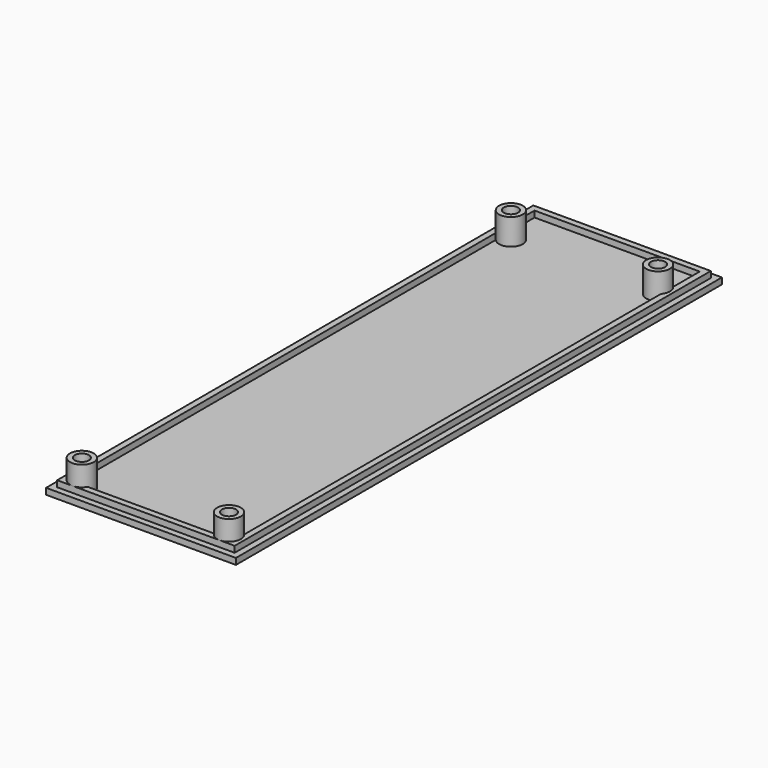
from build123d import *

# Parameters (mm, degrees)
CYLINDER001_R     = 1.5
CYLINDER001_DEPTH = 6.8
CYLINDER_R        = 2.5
CYLINDER_DEPTH    = 6.8
BOX002_W          = 34.8
BOX002_H          = 122.8
BOX002_DEPTH      = 1.3
BOX001_W          = 37.4
BOX001_H          = 125.4
BOX001_DEPTH      = 1.3
BOX_W             = 40
BOX_H             = 128
BOX_DEPTH         = 1.3


with BuildPart() as cylinder001:
    # Cylinder001 → Cylinder001 (new body)
    with BuildSketch(Plane(origin=(4.5, 3.8, 0), x_dir=(1, 0, 0), z_dir=(0, 0, 1))):
        Circle(CYLINDER001_R)
    extrude(amount=CYLINDER001_DEPTH)


with BuildPart() as clone003:
    # Clone003 base: copy of Cylinder001
    add(cylinder001.part)


with BuildPart() as clone003_1:
    # Clone003 placement: moved
    add(clone003.part.moved(Location((31, 0, 0))))


with BuildPart() as clone004:
    # Clone004 base: copy of Cylinder001
    add(cylinder001.part)


with BuildPart() as clone004_1:
    # Clone004 placement: moved
    add(clone004.part.moved(Location((0, 113, 0))))


with BuildPart() as board_post_drills:
    # Clone005 base: copy of Cylinder001
    add(cylinder001.part)


with BuildPart() as board_post_drills_1:
    # Clone005 placement: moved
    add(board_post_drills.part.moved(Location((31, 113, 0))))

    # Fusion001: union Cylinder001, Clone003, Clone004
    add(cylinder001.part)
    add(clone003_1.part)
    add(clone004_1.part)


with BuildPart() as cylinder:
    # Cylinder → Cylinder (new body)
    with BuildSketch(Plane(origin=(4.5, 3.8, 0), x_dir=(1, 0, 0), z_dir=(0, 0, 1))):
        Circle(CYLINDER_R)
    extrude(amount=CYLINDER_DEPTH)


with BuildPart() as clone001:
    # Clone001 base: copy of Cylinder
    add(cylinder.part)


with BuildPart() as clone001_1:
    # Clone001 placement: moved
    add(clone001.part.moved(Location((0, 113, 0))))


with BuildPart() as clone:
    # Clone base: copy of Cylinder
    add(cylinder.part)


with BuildPart() as clone_1:
    # Clone placement: moved
    add(clone.part.moved(Location((31, 0, 0))))


with BuildPart() as clone002:
    # Clone002 base: copy of Cylinder
    add(cylinder.part)


with BuildPart() as clone002_1:
    # Clone002 placement: moved
    add(clone002.part.moved(Location((31, 113, 0))))


with BuildPart() as board_posts:
    # Fusion base: copy of Cylinder
    add(cylinder.part)

    # Fusion: union Clone001, Clone, Clone002
    add(clone001_1.part)
    add(clone_1.part)
    add(clone002_1.part)


with BuildPart() as wall_cutout:
    # Box002 → Box002 (new body)
    with BuildSketch(Plane(origin=(2.6, 2.6, 1.3), x_dir=(1, 0, 0), z_dir=(0, 0, 1))):
        with Locations((17.4, 61.4)):
            Rectangle(BOX002_W, BOX002_H)
    extrude(amount=BOX002_DEPTH)


with BuildPart() as wall:
    # Box001 → Box001 (new body)
    with BuildSketch(Plane(origin=(1.3, 1.3, 1.3), x_dir=(1, 0, 0), z_dir=(0, 0, 1))):
        with Locations((18.7, 62.7)):
            Rectangle(BOX001_W, BOX001_H)
    extrude(amount=BOX001_DEPTH)

    # Cut: cut Wall cutout
    add(wall_cutout.part, mode=Mode.SUBTRACT)


with BuildPart() as back_plate_plus_wall_and_posts_drilled:
    # Box → Box (new body)
    with BuildSketch(Plane.XY):
        with Locations((20, 64)):
            Rectangle(BOX_W, BOX_H)
    extrude(amount=BOX_DEPTH)

    # Fusion002: union Board posts, Wall
    add(board_posts.part)
    add(wall.part)

    # Cut001: cut Board post drills
    add(board_post_drills_1.part, mode=Mode.SUBTRACT)


solid = back_plate_plus_wall_and_posts_drilled.part
